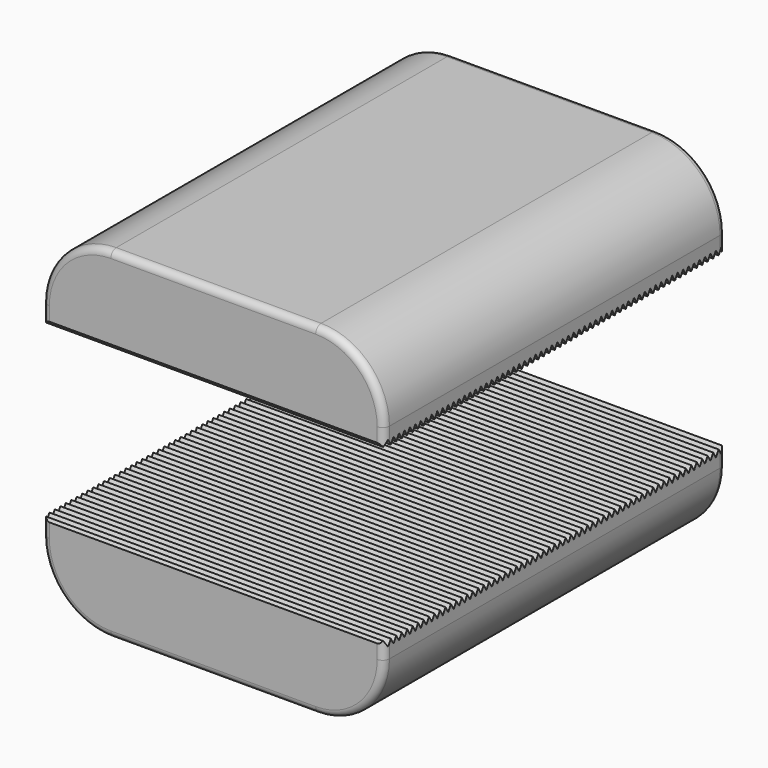
from build123d import *

# Parameters (mm, degrees)
F0_W     = 25.4
F0_H     = 6.35
F1_DEPTH = 15.875
F3_DEPTH = 12.7
F4_R     = 5.08
F5_R     = 0.508


with BuildPart() as f1:
    # F0 (on Front) → F1 (new body, symmetric)
    with BuildSketch(Plane.XZ):
        with Locations((0, -9.525)):
            Rectangle(F0_W, F0_H)
        with Locations((0, 9.525)):
            Rectangle(F0_W, F0_H)
    extrude(amount=F1_DEPTH, both=True)

    # F2 (on Right) → F3 (cut, symmetric)
    with BuildSketch(Plane.YZ):
        Polygon((0.254, 6.789941), (0, 6.35), (-0.254, 6.789941), (-0.508, 6.35), (-0.762, 6.789941), (-1.016, 6.35), (-1.27, 6.789941), (-1.524, 6.35), (-1.778, 6.789941), (-2.032, 6.35), (-2.286, 6.789941), (-2.54, 6.35), (-2.794, 6.789941), (-3.048, 6.35), (-3.302, 6.789941), (-3.556, 6.35), (-3.81, 6.789941), (-4.064, 6.35), (-4.318, 6.789941), (-4.572, 6.35), (-4.826, 6.789941), (-5.08, 6.35), (-5.334, 6.789941), (-5.588, 6.35), (-5.842, 6.789941), (-6.096, 6.35), (-6.35, 6.789941), (-6.604, 6.35), (-6.858, 6.789941), (-7.112, 6.35), (-7.366, 6.789941), (-7.62, 6.35), (-7.874, 6.789941), (-8.128, 6.35), (-8.382, 6.789941), (-8.636, 6.35), (-8.89, 6.789941), (-9.144, 6.35), (-9.398, 6.789941), (-9.652, 6.35), (-9.906, 6.789941), (-10.16, 6.35), (-10.414, 6.789941), (-10.668, 6.35), (-10.922, 6.789941), (-11.176, 6.35), (-11.43, 6.789941), (-11.684, 6.35), (-11.938, 6.789941), (-12.192, 6.35), (-12.446, 6.789941), (-12.7, 6.35), (-12.954, 6.789941), (-13.208, 6.35), (-13.462, 6.789941), (-13.716, 6.35), (-13.97, 6.789941), (-14.224, 6.35), (-14.478, 6.789941), (-14.732, 6.35), (-14.986, 6.789941), (-15.24, 6.35), (-15.494, 6.789941), (-15.748, 6.35), (-16.002, 6.789941), (-16.256, 6.35), (-16.51, 6.789941), (-16.764, 6.35), (-17.018, 6.789941), (-17.272, 6.35), (-17.526, 6.789941), (-17.78, 6.35), (-18.034, 6.789941), (-18.288, 6.35), (-18.542, 6.789941), (-18.796, 6.35), (-19.05, 6.789941), (-19.304, 6.35), (-19.558, 6.789941), (-19.812, 6.35), (-20.066, 6.789941), (-20.32, 6.35), (-20.574, 6.789941), (-20.828, 6.35), (-21.082, 6.789941), (-21.336, 6.35), (-21.59, 6.789941), (-21.844, 6.35), (-22.098, 6.789941), (-22.352, 6.35), (-22.606, 6.789941), (-22.86, 6.35), (-23.114, 6.789941), (-23.368, 6.35), (-23.622, 6.789941), (-23.876, 6.35), (-24.13, 6.789941), (-24.384, 6.35), (-24.638, 6.789941), (-24.892, 6.35), (-25.146, 6.789941), (-25.4, 6.35), (-25.654, 6.789941), (-25.908, 6.35), (-26.162, 6.789941), (-26.416, 6.35), (-26.67, 6.789941), (-26.924, 6.35), (-27.178, 6.789941), (-27.432, 6.35), (-27.686, 6.789941), (-27.94, 6.35), (-28.194, 6.789941), (-28.448, 6.35), (-28.702, 6.789941), (-28.956, 6.35), (-29.21, 6.789941), (-29.464, 6.35), (-29.718, 6.789941), (-29.972, 6.35), (-30.226, 6.789941), (-30.48, 6.35), (-30.734, 6.789941), (-30.988, 6.35), (-31.242, 6.789941), (-31.496, 6.35), (-31.75, 6.789941), (-32.004, 6.35), (-32.258, 6.789941), (-32.512, 6.35), (-32.512, 6.096), (32.512, 6.096), (32.512, 6.35), (32.258, 6.789941), (32.004, 6.35), (31.75, 6.789941), (31.496, 6.35), (31.242, 6.789941), (30.988, 6.35), (30.734, 6.789941), (30.48, 6.35), (30.226, 6.789941), (29.972, 6.35), (29.718, 6.789941), (29.464, 6.35), (29.21, 6.789941), (28.956, 6.35), (28.702, 6.789941), (28.448, 6.35), (28.194, 6.789941), (27.94, 6.35), (27.686, 6.789941), (27.432, 6.35), (27.178, 6.789941), (26.924, 6.35), (26.67, 6.789941), (26.416, 6.35), (26.162, 6.789941), (25.908, 6.35), (25.654, 6.789941), (25.4, 6.35), (25.146, 6.789941), (24.892, 6.35), (24.638, 6.789941), (24.384, 6.35), (24.13, 6.789941), (23.876, 6.35), (23.622, 6.789941), (23.368, 6.35), (23.114, 6.789941), (22.86, 6.35), (22.606, 6.789941), (22.352, 6.35), (22.098, 6.789941), (21.844, 6.35), (21.59, 6.789941), (21.336, 6.35), (21.082, 6.789941), (20.828, 6.35), (20.574, 6.789941), (20.32, 6.35), (20.066, 6.789941), (19.812, 6.35), (19.558, 6.789941), (19.304, 6.35), (19.05, 6.789941), (18.796, 6.35), (18.542, 6.789941), (18.288, 6.35), (18.034, 6.789941), (17.78, 6.35), (17.526, 6.789941), (17.272, 6.35), (17.018, 6.789941), (16.764, 6.35), (16.51, 6.789941), (16.256, 6.35), (16.002, 6.789941), (15.748, 6.35), (15.494, 6.789941), (15.24, 6.35), (14.986, 6.789941), (14.732, 6.35), (14.478, 6.789941), (14.224, 6.35), (13.97, 6.789941), (13.716, 6.35), (13.462, 6.789941), (13.208, 6.35), (12.954, 6.789941), (12.7, 6.35), (12.446, 6.789941), (12.192, 6.35), (11.938, 6.789941), (11.684, 6.35), (11.43, 6.789941), (11.176, 6.35), (10.922, 6.789941), (10.668, 6.35), (10.414, 6.789941), (10.16, 6.35), (9.906, 6.789941), (9.652, 6.35), (9.398, 6.789941), (9.144, 6.35), (8.89, 6.789941), (8.636, 6.35), (8.382, 6.789941), (8.128, 6.35), (7.874, 6.789941), (7.62, 6.35), (7.366, 6.789941), (7.112, 6.35), (6.858, 6.789941), (6.604, 6.35), (6.35, 6.789941), (6.096, 6.35), (5.842, 6.789941), (5.588, 6.35), (5.334, 6.789941), (5.08, 6.35), (4.826, 6.789941), (4.572, 6.35), (4.318, 6.789941), (4.064, 6.35), (3.81, 6.789941), (3.556, 6.35), (3.302, 6.789941), (3.048, 6.35), (2.794, 6.789941), (2.54, 6.35), (2.286, 6.789941), (2.032, 6.35), (1.778, 6.789941), (1.524, 6.35), (1.27, 6.789941), (1.016, 6.35), (0.762, 6.789941), (0.508, 6.35), align=None)
        Polygon((19.304, -6.35), (19.558, -6.789941), (19.812, -6.35), (20.066, -6.789941), (20.32, -6.35), (20.574, -6.789941), (20.828, -6.35), (21.082, -6.789941), (21.336, -6.35), (21.59, -6.789941), (21.844, -6.35), (22.098, -6.789941), (22.352, -6.35), (22.606, -6.789941), (22.86, -6.35), (23.114, -6.789941), (23.368, -6.35), (23.622, -6.789941), (23.876, -6.35), (24.13, -6.789941), (24.384, -6.35), (24.638, -6.789941), (24.892, -6.35), (25.146, -6.789941), (25.4, -6.35), (25.654, -6.789941), (25.908, -6.35), (26.162, -6.789941), (26.416, -6.35), (26.67, -6.789941), (26.924, -6.35), (27.178, -6.789941), (27.432, -6.35), (27.686, -6.789941), (27.94, -6.35), (28.194, -6.789941), (28.448, -6.35), (28.702, -6.789941), (28.956, -6.35), (29.21, -6.789941), (29.464, -6.35), (29.718, -6.789941), (29.972, -6.35), (30.226, -6.789941), (30.48, -6.35), (30.734, -6.789941), (30.988, -6.35), (31.242, -6.789941), (31.496, -6.35), (31.75, -6.789941), (32.004, -6.35), (32.258, -6.789941), (32.512, -6.35), (32.512, -6.096), (-32.512, -6.096), (-32.512, -6.35), (-32.258, -6.789941), (-32.004, -6.35), (-31.75, -6.789941), (-31.496, -6.35), (-31.242, -6.789941), (-30.988, -6.35), (-30.734, -6.789941), (-30.48, -6.35), (-30.226, -6.789941), (-29.972, -6.35), (-29.718, -6.789941), (-29.464, -6.35), (-29.21, -6.789941), (-28.956, -6.35), (-28.702, -6.789941), (-28.448, -6.35), (-28.194, -6.789941), (-27.94, -6.35), (-27.686, -6.789941), (-27.432, -6.35), (-27.178, -6.789941), (-26.924, -6.35), (-26.67, -6.789941), (-26.416, -6.35), (-26.162, -6.789941), (-25.908, -6.35), (-25.654, -6.789941), (-25.4, -6.35), (-25.146, -6.789941), (-24.892, -6.35), (-24.638, -6.789941), (-24.384, -6.35), (-24.13, -6.789941), (-23.876, -6.35), (-23.622, -6.789941), (-23.368, -6.35), (-23.114, -6.789941), (-22.86, -6.35), (-22.606, -6.789941), (-22.352, -6.35), (-22.098, -6.789941), (-21.844, -6.35), (-21.59, -6.789941), (-21.336, -6.35), (-21.082, -6.789941), (-20.828, -6.35), (-20.574, -6.789941), (-20.32, -6.35), (-20.066, -6.789941), (-19.812, -6.35), (-19.558, -6.789941), (-19.304, -6.35), (-19.05, -6.789941), (-18.796, -6.35), (-18.542, -6.789941), (-18.288, -6.35), (-18.034, -6.789941), (-17.78, -6.35), (-17.526, -6.789941), (-17.272, -6.35), (-17.018, -6.789941), (-16.764, -6.35), (-16.51, -6.789941), (-16.256, -6.35), (-16.002, -6.789941), (-15.748, -6.35), (-15.494, -6.789941), (-15.24, -6.35), (-14.986, -6.789941), (-14.732, -6.35), (-14.478, -6.789941), (-14.224, -6.35), (-13.97, -6.789941), (-13.716, -6.35), (-13.462, -6.789941), (-13.208, -6.35), (-12.954, -6.789941), (-12.7, -6.35), (-12.446, -6.789941), (-12.192, -6.35), (-11.938, -6.789941), (-11.684, -6.35), (-11.43, -6.789941), (-11.176, -6.35), (-10.922, -6.789941), (-10.668, -6.35), (-10.414, -6.789941), (-10.16, -6.35), (-9.906, -6.789941), (-9.652, -6.35), (-9.398, -6.789941), (-9.144, -6.35), (-8.89, -6.789941), (-8.636, -6.35), (-8.382, -6.789941), (-8.128, -6.35), (-7.874, -6.789941), (-7.62, -6.35), (-7.366, -6.789941), (-7.112, -6.35), (-6.858, -6.789941), (-6.604, -6.35), (-6.35, -6.789941), (-6.096, -6.35), (-5.842, -6.789941), (-5.588, -6.35), (-5.334, -6.789941), (-5.08, -6.35), (-4.826, -6.789941), (-4.572, -6.35), (-4.318, -6.789941), (-4.064, -6.35), (-3.81, -6.789941), (-3.556, -6.35), (-3.302, -6.789941), (-3.048, -6.35), (-2.794, -6.789941), (-2.54, -6.35), (-2.286, -6.789941), (-2.032, -6.35), (-1.778, -6.789941), (-1.524, -6.35), (-1.27, -6.789941), (-1.016, -6.35), (-0.762, -6.789941), (-0.508, -6.35), (-0.254, -6.789941), (0, -6.35), (0.254, -6.789941), (0.508, -6.35), (0.762, -6.789941), (1.016, -6.35), (1.27, -6.789941), (1.524, -6.35), (1.778, -6.789941), (2.032, -6.35), (2.286, -6.789941), (2.54, -6.35), (2.794, -6.789941), (3.048, -6.35), (3.302, -6.789941), (3.556, -6.35), (3.81, -6.789941), (4.064, -6.35), (4.318, -6.789941), (4.572, -6.35), (4.826, -6.789941), (5.08, -6.35), (5.334, -6.789941), (5.588, -6.35), (5.842, -6.789941), (6.096, -6.35), (6.35, -6.789941), (6.604, -6.35), (6.858, -6.789941), (7.112, -6.35), (7.366, -6.789941), (7.62, -6.35), (7.874, -6.789941), (8.128, -6.35), (8.382, -6.789941), (8.636, -6.35), (8.89, -6.789941), (9.144, -6.35), (9.398, -6.789941), (9.652, -6.35), (9.906, -6.789941), (10.16, -6.35), (10.414, -6.789941), (10.668, -6.35), (10.922, -6.789941), (11.176, -6.35), (11.43, -6.789941), (11.684, -6.35), (11.938, -6.789941), (12.192, -6.35), (12.446, -6.789941), (12.7, -6.35), (12.954, -6.789941), (13.208, -6.35), (13.462, -6.789941), (13.716, -6.35), (13.97, -6.789941), (14.224, -6.35), (14.478, -6.789941), (14.732, -6.35), (14.986, -6.789941), (15.24, -6.35), (15.494, -6.789941), (15.748, -6.35), (16.002, -6.789941), (16.256, -6.35), (16.51, -6.789941), (16.764, -6.35), (17.018, -6.789941), (17.272, -6.35), (17.526, -6.789941), (17.78, -6.35), (18.034, -6.789941), (18.288, -6.35), (18.542, -6.789941), (18.796, -6.35), (19.05, -6.789941), align=None)
    extrude(amount=F3_DEPTH, both=True, mode=Mode.SUBTRACT)

    # F4
    f4_edges = [f1.edges().sort_by_distance(p)[0] for p in [
        (12.7, 0, 12.7),
        (-12.7, 0, 12.7),
        (12.7, 0, -12.7),
        (-12.7, 0, -12.7),
    ]]
    fillet(f4_edges, radius=F4_R)

    # F5
    f5_edges = [f1.edges().sort_by_distance(p)[0] for p in [
        (0, -15.875, 12.7),
        (0, 15.875, 12.7),
        (0, -15.875, -12.7),
        (0, 15.875, -12.7),
    ]]
    fillet(f5_edges, radius=F5_R)


solid = f1.part
